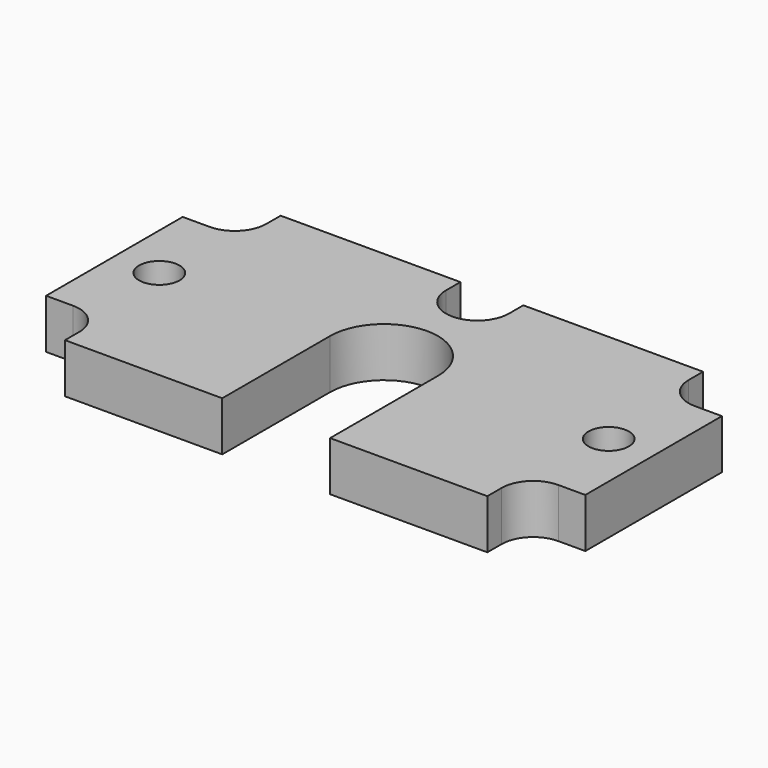
from build123d import *

# Parameters (mm, degrees)
SKETCH_W     = 60
SKETCH_H     = 30
SKETCH_R     = 2.25
SKETCH_R_2   = 2.05
PAD_DEPTH    = 5.5
SKETCH001_W  = 75
SKETCH001_H  = 45
POCKET_DEPTH = 5.501


with BuildPart() as part:
    # Sketch → Pad (new body)
    with BuildSketch(Plane.XY):
        Rectangle(SKETCH_W, SKETCH_H)
        with Locations((25, 0)):
            Circle(SKETCH_R, mode=Mode.SUBTRACT)
        with Locations((-25, 0)):
            Circle(SKETCH_R, mode=Mode.SUBTRACT)
        Circle(SKETCH_R_2, mode=Mode.SUBTRACT)
    extrude(amount=PAD_DEPTH)

    # Sketch001 → Pocket (cut, through all)
    with BuildSketch(Plane.XY.offset(5.5)):
        Rectangle(SKETCH001_W, SKETCH001_H)
        with BuildLine():
            ThreePointArc((-27, 9.5), (-24.525126, 10.525126), (-23.5, 13))
            Line((-23.5, 13), (-23.5, 18))
            Line((-23.5, 18), (-3.5, 18))
            Line((-3.5, 18), (-3.5, 13))
            ThreePointArc((-3.5, 13), (0, 9.5), (3.5, 13))
            Line((3.5, 13), (3.5, 18))
            Line((3.5, 18), (23.5, 18))
            Line((23.5, 18), (23.5, 13))
            ThreePointArc((23.5, 13), (24.525126, 10.525127), (26.999998, 9.5))
            Line((26.999998, 9.5), (31.999998, 9.5))
            Line((31.999998, 9.5), (31.999998, -9.5))
            Line((31.999998, -9.5), (26.999998, -9.5))
            ThreePointArc((26.999998, -9.5), (24.525126, -10.525127), (23.5, -13))
            Line((23.5, -13), (23.5, -18))
            Line((23.5, -18), (6, -18))
            Line((6, 0), (6, -18))
            ThreePointArc((6, 0), (0, 6), (-6, 0))
            Line((-6, 0), (-6, -18))
            Line((-23.5, -18), (-6, -18))
            Line((-23.5, -18), (-23.5, -13))
            ThreePointArc((-23.5, -13), (-24.525126, -10.525127), (-27, -9.5))
            Line((-27, -9.5), (-32, -9.5))
            Line((-32, -9.5), (-32, 9.5))
            Line((-32, 9.5), (-27, 9.5))
        make_face(mode=Mode.SUBTRACT)
    extrude(amount=-POCKET_DEPTH, mode=Mode.SUBTRACT)


solid = part.part
